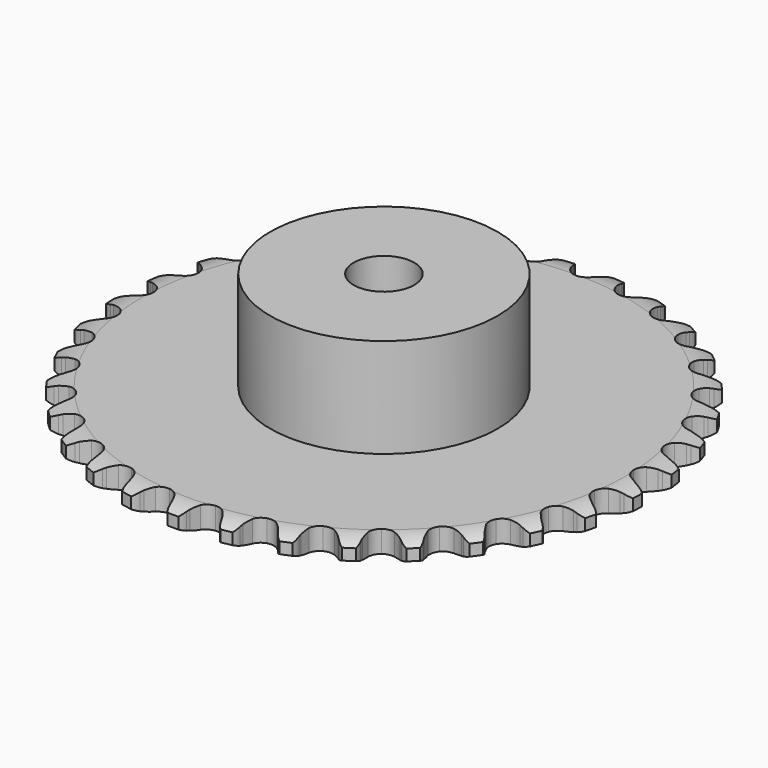
from build123d import *

# Parameters (mm, degrees)
PAD_DEPTH         = 2.9
SKETCH001_R       = 15
PAD001_DEPTH      = 16
SKETCH002_R       = 4
POCKET_DEPTH      = 0.001
POCKET_DEPTH_BACK = 16.001


with BuildPart() as part:
    # Sprocket → Pad (new body)
    with BuildSketch(Plane.XY):
        with BuildLine():
            ThreePointArc((-3.372776, 35.321306), (-2.608506, 34.72482), (-2.108896, 33.893982))
            Line((-2.108896, 33.893982), (-1.947908, 33.463745))
            ThreePointArc((-1.947908, 33.463745), (-1.691395, 32.903237), (-1.357998, 32.384764))
            ThreePointArc((-1.357998, 32.384764), (-0.759315, 31.884429), (0, 31.704998))
            ThreePointArc((0, 31.704998), (0.759315, 31.884429), (1.357998, 32.384764))
            ThreePointArc((1.357998, 32.384764), (1.691395, 32.903237), (1.947908, 33.463745))
            Line((1.947908, 33.463745), (2.108896, 33.893982))
            ThreePointArc((2.108896, 33.893982), (2.608506, 34.72482), (3.372776, 35.321306))
            ThreePointArc((3.372776, 35.321306), (4.010348, 34.590961), (4.343692, 33.680584))
            Line((4.343692, 33.680584), (4.420349, 33.227656))
            ThreePointArc((4.420349, 33.227656), (4.56615, 32.628731), (4.795399, 32.056531))
            ThreePointArc((4.795399, 32.056531), (5.288574, 31.451937), (6.00021, 31.132048))
            ThreePointArc((6.00021, 31.132048), (6.779762, 31.164535), (7.462314, 31.542526))
            Line((7.462314, 31.542526), (8.245762, 32.490368))
            ThreePointArc((8.245762, 32.490368), (8.360319, 32.689539), (8.485264, 32.882362))
            ThreePointArc((8.485264, 32.882362), (9.133082, 33.603634), (9.996426, 34.044702))
            ThreePointArc((9.996426, 34.044702), (10.484259, 33.206893), (10.639289, 32.249883))
            Line((10.639289, 32.249883), (10.628843, 31.790632))
            ThreePointArc((10.628843, 31.790632), (10.658661, 31.174938), (10.775479, 30.569693))
            ThreePointArc((10.775479, 30.569693), (11.145321, 29.882691), (11.783557, 29.433904))
            ThreePointArc((11.783557, 29.433904), (12.555169, 29.318273), (13.296923, 29.560259))
            Line((13.296923, 29.560259), (14.245593, 30.342704))
            ThreePointArc((14.245593, 30.342704), (14.395773, 30.516595), (14.554952, 30.682288))
            ThreePointArc((14.554952, 30.682288), (15.327565, 31.267926), (16.25878, 31.537634))
            ThreePointArc((16.25878, 31.537634), (16.57924, 30.622643), (16.550353, 29.653587))
            Line((16.550353, 29.653587), (16.453182, 29.204613))
            ThreePointArc((16.453182, 29.204613), (16.365941, 28.594402), (16.366104, 27.977986))
            ThreePointArc((16.366104, 27.977986), (16.599247, 27.233406), (17.141016, 26.671942))
            ThreePointArc((17.141016, 26.671942), (17.876801, 26.412372), (18.650946, 26.509608))
            Line((18.650946, 26.509608), (19.730551, 27.098376))
            ThreePointArc((19.730551, 27.098376), (19.910926, 27.240703), (20.098586, 27.373276))
            ThreePointArc((20.098586, 27.373276), (20.96807, 27.802113), (21.933499, 27.890713))
            ThreePointArc((21.933499, 27.890713), (22.075005, 26.93161), (21.863245, 25.985533))
            Line((21.863245, 25.985533), (21.682861, 25.563062))
            ThreePointArc((21.682861, 25.563062), (21.481713, 24.980389), (21.365216, 24.375082))
            ThreePointArc((21.365216, 24.375082), (21.453233, 23.599834), (21.878954, 22.945986))
            ThreePointArc((21.878954, 22.945986), (22.552318, 22.551859), (23.330875, 22.50083))
            Line((23.330875, 22.50083), (24.502396, 22.874641))
            ThreePointArc((24.502396, 22.874641), (24.706446, 22.98026), (24.915805, 23.074923))
            ThreePointArc((24.915805, 23.074923), (25.850734, 23.331459), (26.815484, 23.235749))
            ThreePointArc((26.815484, 23.235749), (26.772922, 22.267198), (26.385942, 21.378294))
            Line((26.385942, 21.378294), (26.128865, 20.997596))
            ThreePointArc((26.128865, 20.997596), (25.821081, 20.46352), (25.592133, 19.891198))
            ThreePointArc((25.592133, 19.891198), (25.531843, 19.113304), (25.826129, 18.390703))
            ThreePointArc((25.826129, 18.390703), (26.412735, 17.876263), (27.167566, 17.678813))
            Line((27.167566, 17.678813), (28.38866, 17.824158))
            ThreePointArc((28.38866, 17.824158), (28.609012, 17.889251), (28.832502, 17.942582))
            ThreePointArc((28.832502, 17.942582), (29.799086, 18.017546), (30.728288, 17.740985))
            ThreePointArc((30.728288, 17.740985), (30.503195, 16.797992), (29.954983, 15.998388))
            Line((29.954983, 15.998388), (29.630503, 15.673222))
            ThreePointArc((29.630503, 15.673222), (29.227207, 15.207046), (28.894084, 14.688396))
            ThreePointArc((28.894084, 14.688396), (28.687666, 13.935968), (28.839881, 13.170732))
            ThreePointArc((28.839881, 13.170732), (29.318528, 12.554573), (30.02235, 12.217838))
            Line((30.02235, 12.217838), (31.248884, 12.129463))
            ThreePointArc((31.248884, 12.129463), (31.477573, 12.151678), (31.707117, 12.161749))
            ThreePointArc((31.707117, 12.161749), (32.67042, 12.052431), (33.530492, 11.605016))
            ThreePointArc((33.530492, 11.605016), (33.131003, 10.721663), (32.441372, 10.040259))
            Line((32.441372, 10.040259), (32.061218, 9.782376))
            ThreePointArc((32.061218, 9.782376), (31.576985, 9.400949), (31.151728, 8.954716))
            ThreePointArc((31.151728, 8.954716), (30.806642, 8.254951), (30.811284, 7.474737))
            ThreePointArc((30.811284, 7.474737), (31.164673, 6.779128), (31.792048, 6.315279))
            Line((31.792048, 6.315279), (32.979692, 5.996378))
            ThreePointArc((32.979692, 5.996378), (33.208452, 5.974912), (33.435755, 5.941359))
            ThreePointArc((33.435755, 5.941359), (34.360961, 5.65171), (35.120816, 5.049611))
            ThreePointArc((35.120816, 5.049611), (34.561371, 4.257825), (33.755246, 3.719248))
            Line((33.755246, 3.719248), (33.333157, 3.537971))
            ThreePointArc((33.333157, 3.537971), (32.785489, 3.255078), (32.283466, 2.897389))
            ThreePointArc((32.283466, 2.897389), (31.812185, 2.275578), (31.669087, 1.508585))
            ThreePointArc((31.669087, 1.508585), (31.884445, 0.758667), (32.412699, 0.184469))
            Line((32.412699, 0.184469), (33.518528, -0.353432))
            ThreePointArc((33.518528, -0.353432), (33.739092, -0.417804), (33.955937, -0.493767))
            ThreePointArc((33.955937, -0.493767), (34.809607, -0.953278), (35.441782, -1.6883))
            ThreePointArc((35.441782, -1.6883), (34.742601, -2.359902), (33.849117, -2.736186))
            Line((33.849117, -2.736186), (33.400349, -2.834307))
            ThreePointArc((33.400349, -2.834307), (32.80904, -3.00844), (32.248397, -3.264657))
            ThreePointArc((32.248397, -3.264657), (31.667953, -3.786041), (31.382287, -4.512092))
            ThreePointArc((31.382287, -4.512092), (31.45183, -5.289214), (31.86187, -5.953008))
            Line((31.86187, -5.953008), (32.845917, -6.690468))
            ThreePointArc((32.845917, -6.690468), (33.050312, -6.795418), (33.248862, -6.911047))
            ThreePointArc((33.248862, -6.911047), (34.000143, -7.523812), (34.48179, -8.365192))
            ThreePointArc((34.48179, -8.365192), (33.668142, -8.892336), (32.719593, -9.092727))
            Line((32.719593, -9.092727), (32.260365, -9.104145))
            ThreePointArc((32.260365, -9.104145), (31.646787, -9.163225), (31.047786, -9.308709))
            ThreePointArc((31.047786, -9.308709), (30.379159, -9.710822), (29.961249, -10.369689))
            ThreePointArc((29.961249, -10.369689), (29.882464, -11.145929), (30.15947, -11.875328))
            Line((30.15947, -11.875328), (30.986169, -12.785694))
            ThreePointArc((30.986169, -12.785694), (31.167009, -12.927429), (31.340088, -13.078544))
            ThreePointArc((31.340088, -13.078544), (31.961825, -13.822417), (32.275536, -14.739743))
            ThreePointArc((32.275536, -14.739743), (31.37683, -15.103378), (30.407497, -15.120633))
            Line((30.407497, -15.120633), (29.954408, -15.044935))
            ThreePointArc((29.954408, -15.044935), (29.340737, -14.986828), (28.725027, -15.016321))
            ThreePointArc((28.725027, -15.016321), (27.992383, -15.284628), (27.457334, -15.852499))
            ThreePointArc((27.457334, -15.852499), (27.233068, -16.599801), (27.367029, -17.368443))
            Line((27.367029, -17.368443), (28.0065, -18.41881))
            ThreePointArc((28.0065, -18.41881), (28.157248, -18.592209), (28.298601, -18.773349))
            ThreePointArc((28.298601, -18.773349), (28.768323, -19.621443), (28.90276, -20.581562))
            ThreePointArc((28.90276, -20.581562), (27.951476, -20.768544), (26.996395, -20.60204))
            Line((26.996395, -20.60204), (26.56582, -20.441962))
            ThreePointArc((26.56582, -20.441962), (25.974236, -20.268767), (25.364071, -20.181203))
            ThreePointArc((25.364071, -20.181203), (24.59389, -20.306008), (23.961039, -20.762358))
            ThreePointArc((23.961039, -20.762358), (23.599398, -21.453713), (23.585472, -22.233817))
            Line((23.585472, -22.233817), (24.014603, -23.386223))
            ThreePointArc((24.014603, -23.386223), (24.129812, -23.585018), (24.234329, -23.789635))
            ThreePointArc((24.234329, -23.789635), (24.53506, -24.711299), (24.485363, -25.67951))
            ThreePointArc((24.485363, -25.67951), (23.515884, -25.683081), (22.609574, -25.338836))
            Line((22.609574, -25.338836), (22.217074, -25.100164))
            ThreePointArc((22.217074, -25.100164), (21.668958, -24.818141), (21.086391, -24.616685))
            ThreePointArc((21.086391, -24.616685), (20.306509, -24.593477), (19.59873, -24.921812))
            ThreePointArc((19.59873, -24.921812), (19.112784, -25.532232), (18.951474, -26.295602))
            Line((18.951474, -26.295602), (19.154756, -27.508397))
            ThreePointArc((19.154756, -27.508397), (19.23026, -27.725402), (19.294165, -27.946102))
            ThreePointArc((19.294165, -27.946102), (19.415035, -28.908024), (19.183002, -29.849333))
            ThreePointArc((19.183002, -29.849333), (18.230366, -29.669365), (17.405583, -29.15982))
            Line((17.405583, -29.15982), (17.065345, -28.85118))
            ThreePointArc((17.065345, -28.85118), (16.580508, -28.470522), (16.046594, -28.162455))
            ThreePointArc((16.046594, -28.162455), (15.285198, -27.992072), (14.528071, -28.180526))
            ThreePointArc((14.528071, -28.180526), (13.935385, -28.687949), (13.632521, -29.406997))
            Line((13.632521, -29.406997), (13.602606, -30.636346))
            ThreePointArc((13.602606, -30.636346), (13.635678, -30.863719), (13.65666, -31.092525))
            ThreePointArc((13.65666, -31.092525), (13.593301, -32.059938), (13.187316, -32.940324))
            ThreePointArc((13.187316, -32.940324), (12.285956, -32.58332), (11.572509, -31.926892))
            Line((11.572509, -31.926892), (11.29683, -31.55944))
            ThreePointArc((11.29683, -31.55944), (10.892795, -31.093904), (10.426832, -30.690361))
            ThreePointArc((10.426832, -30.690361), (9.71144, -30.378962), (8.93233, -30.420723))
            ThreePointArc((8.93233, -30.420723), (8.254324, -30.80681), (7.820853, -31.455545))
            Line((7.820853, -31.455545), (7.558823, -32.657018))
            ThreePointArc((7.558823, -32.657018), (7.548266, -32.88654), (7.525567, -33.115182))
            ThreePointArc((7.525567, -33.115182), (7.280269, -34.053122), (6.715007, -34.840765))
            ThreePointArc((6.715007, -34.840765), (5.897499, -34.319629), (5.321175, -33.540044))
            Line((5.321175, -33.540044), (5.120019, -33.127059))
            ThreePointArc((5.120019, -33.127059), (4.811388, -32.593472), (4.430216, -32.109037))
            ThreePointArc((4.430216, -32.109037), (3.786685, -31.667876), (3.013752, -31.561436))
            ThreePointArc((3.013752, -31.561436), (2.27493, -31.812232), (1.726518, -32.367209))
            Line((1.726518, -32.367209), (1.241844, -33.497379))
            ThreePointArc((1.241844, -33.497379), (1.18804, -33.720757), (1.122481, -33.94097))
            ThreePointArc((1.122481, -33.94097), (0.704109, -34.815538), (0, -35.481971))
            ThreePointArc((0, -35.481971), (-0.704109, -34.815538), (-1.122481, -33.94097))
            Line((-1.122481, -33.94097), (-1.241844, -33.497379))
            ThreePointArc((-1.241844, -33.497379), (-1.443916, -32.915026), (-1.726518, -32.367209))
            ThreePointArc((-1.726518, -32.367209), (-2.27493, -31.812232), (-3.013752, -31.561436))
            ThreePointArc((-3.013752, -31.561436), (-3.786685, -31.667876), (-4.430216, -32.109037))
            Line((-4.430216, -32.109037), (-5.120019, -33.127059))
            ThreePointArc((-5.120019, -33.127059), (-5.215124, -33.336217), (-5.321175, -33.540044))
            ThreePointArc((-5.321175, -33.540044), (-5.897499, -34.319629), (-6.715007, -34.840765))
            ThreePointArc((-6.715007, -34.840765), (-7.280269, -34.053122), (-7.525567, -33.115182))
            Line((-7.525567, -33.115182), (-7.558823, -32.657018))
            ThreePointArc((-7.558823, -32.657018), (-7.647032, -32.046946), (-7.820853, -31.455545))
            ThreePointArc((-7.820853, -31.455545), (-8.254324, -30.80681), (-8.93233, -30.420723))
            ThreePointArc((-8.93233, -30.420723), (-9.71144, -30.378962), (-10.426832, -30.690361))
            Line((-10.426832, -30.690361), (-11.29683, -31.55944))
            ThreePointArc((-11.29683, -31.55944), (-11.429801, -31.746819), (-11.572509, -31.926892))
            ThreePointArc((-11.572509, -31.926892), (-12.285956, -32.58332), (-13.187316, -32.940324))
            ThreePointArc((-13.187316, -32.940324), (-13.593301, -32.059938), (-13.65666, -31.092525))
            Line((-13.65666, -31.092525), (-13.602606, -30.636346))
            ThreePointArc((-13.602606, -30.636346), (-13.573764, -30.020606), (-13.632521, -29.406997))
            ThreePointArc((-13.632521, -29.406997), (-13.935385, -28.687949), (-14.528071, -28.180526))
            ThreePointArc((-14.528071, -28.180526), (-15.285198, -27.992072), (-16.046594, -28.162455))
            Line((-16.046594, -28.162455), (-17.065345, -28.85118))
            ThreePointArc((-17.065345, -28.85118), (-17.231374, -29.010009), (-17.405583, -29.15982))
            ThreePointArc((-17.405583, -29.15982), (-18.230366, -29.669365), (-19.183002, -29.849333))
            ThreePointArc((-19.183002, -29.849333), (-19.415035, -28.908024), (-19.294165, -27.946102))
            Line((-19.294165, -27.946102), (-19.154756, -27.508397))
            ThreePointArc((-19.154756, -27.508397), (-19.009906, -26.909242), (-18.951474, -26.295602))
            ThreePointArc((-18.951474, -26.295602), (-19.112784, -25.532232), (-19.59873, -24.921812))
            ThreePointArc((-19.59873, -24.921812), (-20.306509, -24.593477), (-21.086391, -24.616685))
            Line((-21.086391, -24.616685), (-22.217074, -25.100164))
            ThreePointArc((-22.217074, -25.100164), (-22.410161, -25.224701), (-22.609574, -25.338836))
            ThreePointArc((-22.609574, -25.338836), (-23.515884, -25.683081), (-24.485363, -25.67951))
            ThreePointArc((-24.485363, -25.67951), (-24.53506, -24.711299), (-24.234329, -23.789635))
            Line((-24.234329, -23.789635), (-24.014603, -23.386223))
            ThreePointArc((-24.014603, -23.386223), (-23.75898, -22.825309), (-23.585472, -22.233817))
            ThreePointArc((-23.585472, -22.233817), (-23.599398, -21.453713), (-23.961039, -20.762358))
            ThreePointArc((-23.961039, -20.762358), (-24.59389, -20.306008), (-25.364071, -20.181203))
            Line((-25.364071, -20.181203), (-26.56582, -20.441962))
            ThreePointArc((-26.56582, -20.441962), (-26.778986, -20.527707), (-26.996395, -20.60204))
            ThreePointArc((-26.996395, -20.60204), (-27.951476, -20.768544), (-28.90276, -20.581562))
            ThreePointArc((-28.90276, -20.581562), (-28.768323, -19.621443), (-28.298601, -18.773349))
            Line((-28.298601, -18.773349), (-28.0065, -18.41881))
            ThreePointArc((-28.0065, -18.41881), (-27.649342, -17.916409), (-27.367029, -17.368443))
            ThreePointArc((-27.367029, -17.368443), (-27.233068, -16.599801), (-27.457334, -15.852499))
            ThreePointArc((-27.457334, -15.852499), (-27.992383, -15.284628), (-28.725027, -15.016321))
            Line((-28.725027, -15.016321), (-29.954408, -15.044935))
            ThreePointArc((-29.954408, -15.044935), (-30.179949, -15.088788), (-30.407497, -15.120633))
            ThreePointArc((-30.407497, -15.120633), (-31.37683, -15.103378), (-32.275536, -14.739743))
            ThreePointArc((-32.275536, -14.739743), (-31.961825, -13.822417), (-31.340088, -13.078544))
            Line((-31.340088, -13.078544), (-30.986169, -12.785694))
            ThreePointArc((-30.986169, -12.785694), (-30.540385, -12.359964), (-30.15947, -11.875328))
            ThreePointArc((-30.15947, -11.875328), (-29.882464, -11.145929), (-29.961249, -10.369689))
            ThreePointArc((-29.961249, -10.369689), (-30.379159, -9.710822), (-31.047786, -9.308709))
            Line((-31.047786, -9.308709), (-32.260365, -9.104145))
            ThreePointArc((-32.260365, -9.104145), (-32.49013, -9.104521), (-32.719593, -9.092727))
            ThreePointArc((-32.719593, -9.092727), (-33.668142, -8.892336), (-34.48179, -8.365192))
            ThreePointArc((-34.48179, -8.365192), (-34.000143, -7.523812), (-33.248862, -6.911047))
            Line((-33.248862, -6.911047), (-32.845917, -6.690468))
            ThreePointArc((-32.845917, -6.690468), (-32.327619, -6.356798), (-31.86187, -5.953008))
            ThreePointArc((-31.86187, -5.953008), (-31.45183, -5.289214), (-31.382287, -4.512092))
            ThreePointArc((-31.382287, -4.512092), (-31.667953, -3.786041), (-32.248397, -3.264657))
            Line((-32.248397, -3.264657), (-33.400349, -2.834307))
            ThreePointArc((-33.400349, -2.834307), (-33.626033, -2.791193), (-33.849117, -2.736186))
            ThreePointArc((-33.849117, -2.736186), (-34.742601, -2.359902), (-35.441782, -1.6883))
            ThreePointArc((-35.441782, -1.6883), (-34.809607, -0.953278), (-33.955937, -0.493767))
            Line((-33.955937, -0.493767), (-33.518528, -0.353432))
            ThreePointArc((-33.518528, -0.353432), (-32.946449, -0.12388), (-32.412699, 0.184469))
            ThreePointArc((-32.412699, 0.184469), (-31.884445, 0.758667), (-31.669087, 1.508585))
            ThreePointArc((-31.669087, 1.508585), (-31.812185, 2.275578), (-32.283466, 2.897389))
            Line((-32.283466, 2.897389), (-33.333157, 3.537971))
            ThreePointArc((-33.333157, 3.537971), (-33.546604, 3.623016), (-33.755246, 3.719248))
            ThreePointArc((-33.755246, 3.719248), (-34.561371, 4.257825), (-35.120816, 5.049611))
            ThreePointArc((-35.120816, 5.049611), (-34.360961, 5.65171), (-33.435755, 5.941359))
            Line((-33.435755, 5.941359), (-32.979692, 5.996378))
            ThreePointArc((-32.979692, 5.996378), (-32.374508, 6.113515), (-31.792048, 6.315279))
            ThreePointArc((-31.792048, 6.315279), (-31.164673, 6.779128), (-30.811284, 7.474737))
            ThreePointArc((-30.811284, 7.474737), (-30.806642, 8.254951), (-31.151728, 8.954716))
            Line((-31.151728, 8.954716), (-32.061218, 9.782376))
            ThreePointArc((-32.061218, 9.782376), (-32.254712, 9.90628), (-32.441372, 10.040259))
            ThreePointArc((-32.441372, 10.040259), (-33.131003, 10.721663), (-33.530492, 11.605016))
            ThreePointArc((-33.530492, 11.605016), (-32.67042, 12.052431), (-31.707117, 12.161749))
            Line((-31.707117, 12.161749), (-31.248884, 12.129463))
            ThreePointArc((-31.248884, 12.129463), (-30.632468, 12.129952), (-30.02235, 12.217838))
            ThreePointArc((-30.02235, 12.217838), (-29.318528, 12.554573), (-28.839881, 13.170732))
            ThreePointArc((-28.839881, 13.170732), (-28.687666, 13.935968), (-28.894084, 14.688396))
            Line((-28.894084, 14.688396), (-29.630503, 15.673222))
            ThreePointArc((-29.630503, 15.673222), (-29.797052, 15.831505), (-29.954983, 15.998388))
            ThreePointArc((-29.954983, 15.998388), (-30.503195, 16.797992), (-30.728288, 17.740985))
            ThreePointArc((-30.728288, 17.740985), (-29.799086, 18.017546), (-28.832502, 17.942582))
            Line((-28.832502, 17.942582), (-28.38866, 17.824158))
            ThreePointArc((-28.38866, 17.824158), (-27.783291, 17.707981), (-27.167566, 17.678813))
            ThreePointArc((-27.167566, 17.678813), (-26.412735, 17.876263), (-25.826129, 18.390703))
            ThreePointArc((-25.826129, 18.390703), (-25.531843, 19.113304), (-25.592133, 19.891198))
            Line((-25.592133, 19.891198), (-26.128865, 20.997596))
            ThreePointArc((-26.128865, 20.997596), (-26.262448, 21.184538), (-26.385942, 21.378294))
            ThreePointArc((-26.385942, 21.378294), (-26.772922, 22.267198), (-26.815484, 23.235749))
            ThreePointArc((-26.815484, 23.235749), (-25.850734, 23.331459), (-24.915805, 23.074923))
            Line((-24.915805, 23.074923), (-24.502396, 22.874641))
            ThreePointArc((-24.502396, 22.874641), (-23.929953, 22.645997), (-23.330875, 22.50083))
            ThreePointArc((-23.330875, 22.50083), (-22.552318, 22.551859), (-21.878954, 22.945986))
            ThreePointArc((-21.878954, 22.945986), (-21.453233, 23.599834), (-21.365216, 24.375082))
            Line((-21.365216, 24.375082), (-21.682861, 25.563062))
            ThreePointArc((-21.682861, 25.563062), (-21.778651, 25.771907), (-21.863245, 25.985533))
            ThreePointArc((-21.863245, 25.985533), (-22.075005, 26.93161), (-21.933499, 27.890713))
            ThreePointArc((-21.933499, 27.890713), (-20.96807, 27.802113), (-20.098586, 27.373276))
            Line((-20.098586, 27.373276), (-19.730551, 27.098376))
            ThreePointArc((-19.730551, 27.098376), (-19.211725, 26.765528), (-18.650946, 26.509608))
            ThreePointArc((-18.650946, 26.509608), (-17.876801, 26.412372), (-17.141016, 26.671942))
            ThreePointArc((-17.141016, 26.671942), (-16.599247, 27.233406), (-16.366104, 27.977986))
            Line((-16.366104, 27.977986), (-16.453182, 29.204613))
            ThreePointArc((-16.453182, 29.204613), (-16.507717, 29.427812), (-16.550353, 29.653587))
            ThreePointArc((-16.550353, 29.653587), (-16.57924, 30.622643), (-16.25878, 31.537634))
            ThreePointArc((-16.25878, 31.537634), (-15.327565, 31.267926), (-14.554952, 30.682288))
            Line((-14.554952, 30.682288), (-14.245593, 30.342704))
            ThreePointArc((-14.245593, 30.342704), (-13.799135, 29.917682), (-13.296923, 29.560259))
            ThreePointArc((-13.296923, 29.560259), (-12.555169, 29.318273), (-11.783557, 29.433904))
            ThreePointArc((-11.783557, 29.433904), (-11.145321, 29.882691), (-10.775479, 30.569693))
            Line((-10.775479, 30.569693), (-10.628843, 31.790632))
            ThreePointArc((-10.628843, 31.790632), (-10.640151, 32.020119), (-10.639289, 32.249883))
            ThreePointArc((-10.639289, 32.249883), (-10.484259, 33.206893), (-9.996426, 34.044702))
            ThreePointArc((-9.996426, 34.044702), (-9.133082, 33.603634), (-8.485264, 32.882362))
            Line((-8.485264, 32.882362), (-8.245762, 32.490368))
            ThreePointArc((-8.245762, 32.490368), (-7.887808, 31.988534), (-7.462314, 31.542526))
            ThreePointArc((-7.462314, 31.542526), (-6.779762, 31.164535), (-6.00021, 31.132048))
            ThreePointArc((-6.00021, 31.132048), (-5.288574, 31.451937), (-4.795399, 32.056531))
            Line((-4.795399, 32.056531), (-4.420349, 33.227656))
            ThreePointArc((-4.420349, 33.227656), (-4.388022, 33.455136), (-4.343692, 33.680584))
            ThreePointArc((-4.343692, 33.680584), (-4.010348, 34.590961), (-3.372776, 35.321306))
        make_face()
    extrude(amount=PAD_DEPTH)

    # Sketch → Groove (revolve, cut)
    with BuildSketch(Plane.XZ):
        with BuildLine():
            Line((31.889674, 0), (34.8, 0))
            Line((37.710326, 0), (34.8, 0))
            Line((37.710326, 2.9), (37.710326, 0))
            Line((34.8, 2.9), (37.710326, 2.9))
            Line((31.889674, 2.9), (34.8, 2.9))
            ThreePointArc((34.8, 2.2), (33.386337, 2.72254), (31.889674, 2.9))
            Line((34.8, 0.7), (34.8, 2.2))
            ThreePointArc((31.889674, 0), (33.386337, 0.17746), (34.8, 0.7))
        make_face()
    revolve(axis=Axis((0, 0, 0), (0, 0, 1)), mode=Mode.SUBTRACT)

    # Sketch001 → Pad001 (join)
    with BuildSketch(Plane.XY):
        Circle(SKETCH001_R)
    extrude(amount=PAD001_DEPTH)

    # Sketch002 → Pocket (cut, two sides)
    with BuildSketch(Plane.XY) as pocket_sk:
        Circle(SKETCH002_R)
    extrude(amount=-POCKET_DEPTH, mode=Mode.SUBTRACT)
    extrude(pocket_sk.sketch, amount=POCKET_DEPTH_BACK, mode=Mode.SUBTRACT)


solid = part.part
